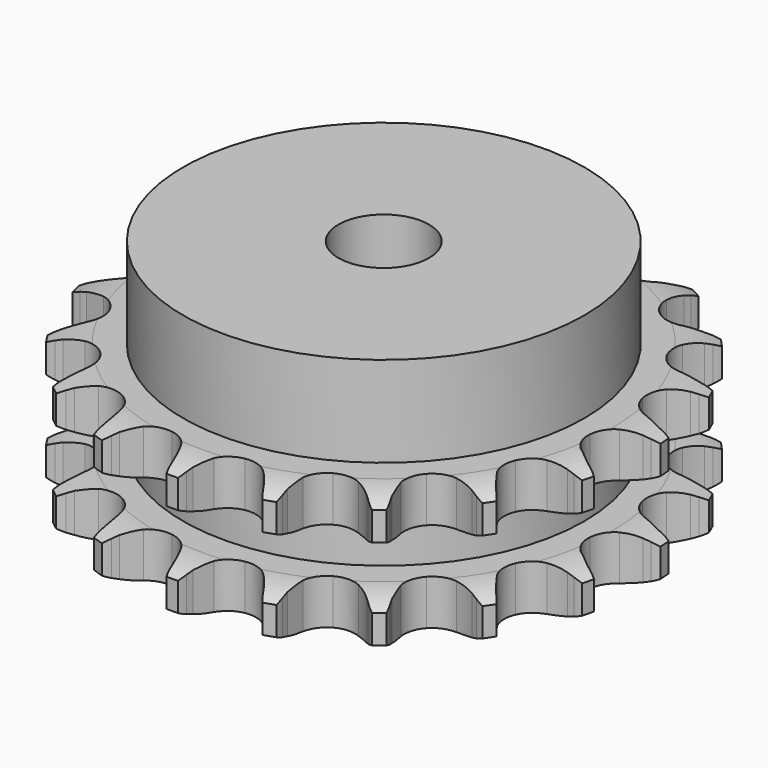
from build123d import *

# Parameters (mm, degrees)
PAD_DEPTH         = 21
SKETCH001_R       = 31
PAD001_DEPTH      = 35
SKETCH002_R       = 7
POCKET_DEPTH      = 0.0010001
POCKET_DEPTH_BACK = 35.001


with BuildPart() as part:
    # Sprocket → Pad (new body)
    with BuildSketch(Plane.XY):
        with BuildLine():
            ThreePointArc((-6.9707445484, 41.7733818998), (-6.0017139948, 40.6642409534), (-5.2850266596, 39.3775501917))
            Line((-5.2850266596, 39.3775501917), (-4.8769925333, 38.421171019))
            ThreePointArc((-4.8769925333, 38.421171019), (-4.2171674371, 37.1188061633), (-3.3924410992, 35.9140863442))
            ThreePointArc((-3.3924410992, 35.9140863442), (-1.8859526252, 34.6993028788), (0, 34.2652647632))
            ThreePointArc((0, 34.2652647632), (1.8859526252, 34.6993028788), (3.3924410992, 35.9140863442))
            ThreePointArc((3.3924410992, 35.9140863442), (4.2171674371, 37.1188061633), (4.8769925333, 38.421171019))
            Line((4.8769925333, 38.421171019), (5.2850266596, 39.3775501917))
            ThreePointArc((5.2850266596, 39.3775501917), (6.0017139948, 40.6642409534), (6.9707445484, 41.7733818998))
            ThreePointArc((6.9707445484, 41.7733818998), (7.5271328772, 40.4096935628), (7.7872003083, 38.9600112583))
            Line((7.7872003083, 38.9600112583), (7.8625902105, 37.9229628829))
            ThreePointArc((7.8625902105, 37.9229628829), (8.0637869856, 36.476918889), (8.4526554899, 35.0696859085))
            ThreePointArc((8.4526554899, 35.0696859085), (9.4830787166, 33.4315667541), (11.1259132808, 32.4086782045))
            ThreePointArc((11.1259132808, 32.4086782045), (13.0506117364, 32.2068311214), (14.869914056, 32.8666382601))
            Line((14.869914056, 32.8666382601), (17.0880774617, 34.7558491092))
            ThreePointArc((17.0880774617, 34.7558491092), (17.4272810662, 35.1500279482), (17.7845389833, 35.5279205561))
            ThreePointArc((17.7845389833, 35.5279205561), (18.8801820292, 36.512186866), (20.1568453111, 37.2465877901))
            ThreePointArc((20.1568453111, 37.2465877901), (20.2402981064, 35.7761288537), (20.015563292, 34.3205505783))
            Line((20.015563292, 34.3205505783), (19.7501393043, 33.3152132831))
            ThreePointArc((19.7501393043, 33.3152132831), (19.4709049659, 31.8821914553), (19.3817757002, 30.4249408424))
            ThreePointArc((19.3817757002, 30.4249408424), (19.8244713343, 28.5410016274), (21.0461612212, 27.0401084898))
            ThreePointArc((21.0461612212, 27.0401084898), (22.801034565, 26.2242494716), (24.7360010944, 26.257579942))
            Line((24.7360010944, 26.257579942), (27.4474040483, 27.3241916559))
            ThreePointArc((27.4474040483, 27.3241916559), (27.8962183257, 27.5868735678), (28.3568205526, 27.8282894558))
            ThreePointArc((28.3568205526, 27.8282894558), (29.7126893845, 28.4034707867), (31.1586391187, 28.6835479531))
            ThreePointArc((31.1586391187, 28.6835479531), (30.7601129752, 27.2656654594), (30.0749294195, 25.9619257048))
            Line((30.0749294195, 25.9619257048), (29.4974543494, 25.0972433853))
            ThreePointArc((29.4974543494, 25.0972433853), (28.7680482708, 23.8325338743), (28.2105797741, 22.4831813444))
            ThreePointArc((28.2105797741, 22.4831813444), (28.0175748746, 20.5575761151), (28.6857310285, 18.7413234498))
            ThreePointArc((28.6857310285, 18.7413234498), (30.0806115039, 17.3998634803), (31.9215585956, 16.8031054089))
            Line((31.9215585956, 16.8031054089), (34.8323785159, 16.9315340582))
            ThreePointArc((34.8323785159, 16.9315340582), (35.3421674752, 17.0342533818), (35.8562006137, 17.1130313926))
            ThreePointArc((35.8562006137, 17.1130313926), (37.3253658052, 17.2167979224), (38.7839109016, 17.0122006242))
            ThreePointArc((38.7839109016, 17.0122006242), (37.9465923108, 15.8005441423), (36.8752102837, 14.7899233405))
            Line((36.8752102837, 14.7899233405), (36.0482625157, 14.1595977428))
            ThreePointArc((36.0482625157, 14.1595977428), (34.9477271634, 13.2002514481), (33.9823297973, 12.1050202852))
            ThreePointArc((33.9823297973, 12.1050202852), (33.1745394397, 10.346418247), (33.2167567739, 8.4116252124))
            ThreePointArc((33.2167567739, 8.4116252124), (34.1004874375, 6.6899322943), (35.6479199089, 5.5277536777))
            Line((35.6479199089, 5.5277536777), (38.4427242913, 4.7040820254))
            ThreePointArc((38.4427242913, 4.7040820254), (38.9582443885, 4.6357075283), (39.4700049719, 4.5433108419))
            ThreePointArc((39.4700049719, 4.5433108419), (40.8932596781, 4.164417857), (42.206344144, 3.4973173862))
            ThreePointArc((42.206344144, 3.4973173862), (41.0209695675, 2.6231886966), (39.679489936, 2.015203293))
            Line((39.679489936, 2.015203293), (38.6926820919, 1.6875399761))
            ThreePointArc((38.6926820919, 1.6875399761), (37.340277548, 1.1375169545), (36.0715670967, 0.4150924493))
            ThreePointArc((36.0715670967, 0.4150924493), (34.7365279005, -0.9859345793), (34.1482315118, -2.8296031366))
            ThreePointArc((34.1482315118, -2.8296031366), (34.4250464338, -4.7449568609), (35.5112759657, -6.3466159364))
            Line((35.5112759657, -6.3466159364), (37.8872043894, -8.0331302862))
            ThreePointArc((37.8872043894, -8.0331302862), (38.3525910228, -8.2651891663), (38.8066218512, -8.5187479352))
            ThreePointArc((38.8066218512, -8.5187479352), (40.0297343407, -9.3392415007), (41.0550650995, -10.3965544571))
            ThreePointArc((41.0550650995, -10.3965544571), (39.6500882656, -10.8384299474), (38.1838811629, -10.9778953005))
            Line((38.1838811629, -10.9778953005), (37.1441491847, -10.9673889319))
            ThreePointArc((37.1441491847, -10.9673889319), (35.6864294661, -11.0484851515), (34.2518903932, -11.3198170942))
            ThreePointArc((34.2518903932, -11.3198170942), (32.5342745706, -12.2114460956), (31.3792155009, -13.7642000799))
            ThreePointArc((31.3792155009, -13.7642000799), (31.0191174893, -15.6656563145), (31.5264342573, -17.533231236))
            Line((31.5264342573, -17.533231236), (33.2260180114, -19.8998282844))
            ThreePointArc((33.2260180114, -19.8998282844), (33.5908393181, -20.2704243672), (33.9379391062, -20.6576681916))
            ThreePointArc((33.9379391062, -20.6576681916), (34.828366162, -21.8308491286), (35.4548327165, -23.1637983058))
            ThreePointArc((35.4548327165, -23.1637983058), (33.9825046656, -23.1255365309), (32.5504563818, -22.7813685986))
            Line((32.5504563818, -22.7813685986), (31.5704713625, -22.4338310725))
            ThreePointArc((31.5704713625, -22.4338310725), (30.1654030196, -22.0372124564), (28.7204898927, -21.8280488105))
            ThreePointArc((28.7204898927, -21.8280488105), (26.8064277696, -22.1136579473), (25.2097745918, -23.207232371))
            ThreePointArc((25.2097745918, -23.207232371), (24.2517858536, -24.8887388288), (24.1252142141, -26.819848875))
            Line((24.1252142141, -26.819848875), (24.964277027, -29.6100711103))
            ThreePointArc((24.964277027, -29.6100711103), (25.1889989577, -30.0790445598), (25.3915540576, -30.5580095626))
            ThreePointArc((25.3915540576, -30.5580095626), (25.852804092, -31.9567455129), (26.0125190702, -33.4208851846))
            ThreePointArc((26.0125190702, -33.4208851846), (24.6323893922, -32.9066324017), (23.3896845795, -32.1161271196))
            Line((23.3896845795, -32.1161271196), (22.5756431017, -31.4692195197))
            ThreePointArc((22.5756431017, -31.4692195197), (21.3754870914, -30.6378658491), (20.0767786681, -29.9708727411))
            ThreePointArc((20.0767786681, -29.9708727411), (18.1736885752, -29.6195118317), (16.3084634358, -30.1354009374))
            ThreePointArc((16.3084634358, -30.1354009374), (14.8563969155, -31.4147403024), (14.1096528696, -33.2001197355))
            Line((14.1096528696, -33.2001197355), (13.9972692661, -36.1116032839))
            ThreePointArc((13.9972692661, -36.1116032839), (14.0575397126, -36.6281335499), (14.0936001364, -37.1469164411))
            ThreePointArc((14.0936001364, -37.1469164411), (14.075689551, -38.6196326608), (13.7513453569, -40.0563005753))
            ThreePointArc((13.7513453569, -40.0563005753), (12.6129725173, -39.1217840527), (11.6942775245, -37.9706049342))
            Line((11.6942775245, -37.9706049342), (11.1343936138, -37.0944297367))
            ThreePointArc((11.1343936138, -37.0944297367), (10.2692054621, -35.9184310815), (9.2574369514, -34.8658875643))
            ThreePointArc((9.2574369514, -34.8658875643), (7.5715482299, -33.9156320151), (5.6398772146, -33.7979312133))
            ThreePointArc((5.6398772146, -33.7979312133), (3.8510868508, -34.5364672143), (2.5650917028, -35.9826424698))
            Line((2.5650917028, -35.9826424698), (1.5134401902, -38.6998829124))
            ThreePointArc((1.5134401902, -38.6998829124), (1.4027279145, -39.2079959258), (1.2683859556, -39.7103785295))
            ThreePointArc((1.2683859556, -39.7103785295), (0.7732556403, -41.0974833646), (0, -42.3509942611))
            ThreePointArc((0, -42.3509942611), (-0.7732556403, -41.0974833646), (-1.2683859556, -39.7103785295))
            Line((-1.2683859556, -39.7103785295), (-1.5134401902, -38.6998829124))
            ThreePointArc((-1.5134401902, -38.6998829124), (-1.9499039223, -37.3066769744), (-2.5650917028, -35.9826424698))
            ThreePointArc((-2.5650917028, -35.9826424698), (-3.8510868508, -34.5364672143), (-5.6398772146, -33.7979312133))
            ThreePointArc((-5.6398772146, -33.7979312133), (-7.5715482299, -33.9156320151), (-9.2574369514, -34.8658875643))
            Line((-9.2574369514, -34.8658875643), (-11.1343936138, -37.0944297367))
            ThreePointArc((-11.1343936138, -37.0944297367), (-11.4040912188, -37.5390635684), (-11.6942775245, -37.9706049342))
            ThreePointArc((-11.6942775245, -37.9706049342), (-12.6129725173, -39.1217840527), (-13.7513453569, -40.0563005753))
            ThreePointArc((-13.7513453569, -40.0563005753), (-14.075689551, -38.6196326608), (-14.0936001364, -37.1469164411))
            Line((-14.0936001364, -37.1469164411), (-13.9972692661, -36.1116032839))
            ThreePointArc((-13.9972692661, -36.1116032839), (-13.9577109607, -34.6521655444), (-14.1096528696, -33.2001197355))
            ThreePointArc((-14.1096528696, -33.2001197355), (-14.8563969155, -31.4147403024), (-16.3084634358, -30.1354009374))
            ThreePointArc((-16.3084634358, -30.1354009374), (-18.1736885752, -29.6195118317), (-20.0767786681, -29.9708727411))
            Line((-20.0767786681, -29.9708727411), (-22.5756431017, -31.4692195197))
            ThreePointArc((-22.5756431017, -31.4692195197), (-22.9751001157, -31.8021911948), (-23.3896845795, -32.1161271196))
            ThreePointArc((-23.3896845795, -32.1161271196), (-24.6323893922, -32.9066324017), (-26.0125190702, -33.4208851846))
            ThreePointArc((-26.0125190702, -33.4208851846), (-25.852804092, -31.9567455129), (-25.3915540576, -30.5580095626))
            Line((-25.3915540576, -30.5580095626), (-24.964277027, -29.6100711103))
            ThreePointArc((-24.964277027, -29.6100711103), (-24.4529834404, -28.2425542939), (-24.1252142141, -26.819848875))
            ThreePointArc((-24.1252142141, -26.819848875), (-24.2517858536, -24.8887388288), (-25.2097745918, -23.207232371))
            ThreePointArc((-25.2097745918, -23.207232371), (-26.8064277696, -22.1136579473), (-28.7204898927, -21.8280488105))
            Line((-28.7204898927, -21.8280488105), (-31.5704713625, -22.4338310725))
            ThreePointArc((-31.5704713625, -22.4338310725), (-32.0564004198, -22.6190579434), (-32.5504563818, -22.7813685986))
            ThreePointArc((-32.5504563818, -22.7813685986), (-33.9825046656, -23.1255365309), (-35.4548327165, -23.1637983058))
            ThreePointArc((-35.4548327165, -23.1637983058), (-34.828366162, -21.8308491286), (-33.9379391062, -20.6576681916))
            Line((-33.9379391062, -20.6576681916), (-33.2260180114, -19.8998282844))
            ThreePointArc((-33.2260180114, -19.8998282844), (-32.2983957372, -18.7724240573), (-31.5264342573, -17.533231236))
            ThreePointArc((-31.5264342573, -17.533231236), (-31.0191174893, -15.6656563145), (-31.3792155009, -13.7642000799))
            ThreePointArc((-31.3792155009, -13.7642000799), (-32.5342745706, -12.2114460956), (-34.2518903932, -11.3198170942))
            Line((-34.2518903932, -11.3198170942), (-37.1441491847, -10.9673889319))
            ThreePointArc((-37.1441491847, -10.9673889319), (-37.663892332, -10.984798793), (-38.1838811629, -10.9778953005))
            ThreePointArc((-38.1838811629, -10.9778953005), (-39.6500882656, -10.8384299474), (-41.0550650995, -10.3965544571))
            ThreePointArc((-41.0550650995, -10.3965544571), (-40.0297343407, -9.3392415007), (-38.8066218512, -8.5187479352))
            Line((-38.8066218512, -8.5187479352), (-37.8872043894, -8.0331302862))
            ThreePointArc((-37.8872043894, -8.0331302862), (-36.6437756946, -7.2680103899), (-35.5112759657, -6.3466159364))
            ThreePointArc((-35.5112759657, -6.3466159364), (-34.4250464338, -4.7449568609), (-34.1482315118, -2.8296031366))
            ThreePointArc((-34.1482315118, -2.8296031366), (-34.7365279005, -0.9859345793), (-36.0715670967, 0.4150924493))
            Line((-36.0715670967, 0.4150924493), (-38.6926820919, 1.6875399761))
            ThreePointArc((-38.6926820919, 1.6875399761), (-39.1899170946, 1.8398337534), (-39.679489936, 2.015203293))
            ThreePointArc((-39.679489936, 2.015203293), (-41.0209695675, 2.6231886966), (-42.206344144, 3.4973173862))
            ThreePointArc((-42.206344144, 3.4973173862), (-40.8932596781, 4.164417857), (-39.4700049719, 4.5433108419))
            Line((-39.4700049719, 4.5433108419), (-38.4427242913, 4.7040820254))
            ThreePointArc((-38.4427242913, 4.7040820254), (-37.0182339687, 5.0240049781), (-35.6479199089, 5.5277536777))
            ThreePointArc((-35.6479199089, 5.5277536777), (-34.1004874375, 6.6899322943), (-33.2167567739, 8.4116252124))
            ThreePointArc((-33.2167567739, 8.4116252124), (-33.1745394397, 10.346418247), (-33.9823297973, 12.1050202852))
            Line((-33.9823297973, 12.1050202852), (-36.0482625157, 14.1595977428))
            ThreePointArc((-36.0482625157, 14.1595977428), (-36.4691062457, 14.4650917646), (-36.8752102837, 14.7899233405))
            ThreePointArc((-36.8752102837, 14.7899233405), (-37.9465923108, 15.8005441423), (-38.7839109016, 17.0122006242))
            ThreePointArc((-38.7839109016, 17.0122006242), (-37.3253658052, 17.2167979224), (-35.8562006137, 17.1130313926))
            Line((-35.8562006137, 17.1130313926), (-34.8323785159, 16.9315340582))
            ThreePointArc((-34.8323785159, 16.9315340582), (-33.3811921952, 16.7715914512), (-31.9215585956, 16.8031054089))
            ThreePointArc((-31.9215585956, 16.8031054089), (-30.0806115039, 17.3998634803), (-28.6857310285, 18.7413234498))
            ThreePointArc((-28.6857310285, 18.7413234498), (-28.0175748746, 20.5575761151), (-28.2105797741, 22.4831813444))
            Line((-28.2105797741, 22.4831813444), (-29.4974543494, 25.0972433853))
            ThreePointArc((-29.4974543494, 25.0972433853), (-29.7963018587, 25.5228326341), (-30.0749294195, 25.9619257048))
            ThreePointArc((-30.0749294195, 25.9619257048), (-30.7601129752, 27.2656654594), (-31.1586391187, 28.6835479531))
            ThreePointArc((-31.1586391187, 28.6835479531), (-29.7126893845, 28.4034707867), (-28.3568205526, 27.8282894558))
            Line((-28.3568205526, 27.8282894558), (-27.4474040483, 27.3241916559))
            ThreePointArc((-27.4474040483, 27.3241916559), (-26.1267802849, 26.7017157525), (-24.7360010944, 26.257579942))
            ThreePointArc((-24.7360010944, 26.257579942), (-22.801034565, 26.2242494716), (-21.0461612212, 27.0401084898))
            ThreePointArc((-21.0461612212, 27.0401084898), (-19.8244713343, 28.5410016274), (-19.3817757002, 30.4249408424))
            Line((-19.3817757002, 30.4249408424), (-19.7501393043, 33.3152132831))
            ThreePointArc((-19.7501393043, 33.3152132831), (-19.894605828, 33.8147785601), (-20.015563292, 34.3205505783))
            ThreePointArc((-20.015563292, 34.3205505783), (-20.2402981064, 35.7761288537), (-20.1568453111, 37.2465877901))
            ThreePointArc((-20.1568453111, 37.2465877901), (-18.8801820292, 36.512186866), (-17.7845389833, 35.5279205561))
            Line((-17.7845389833, 35.5279205561), (-17.0880774617, 34.7558491092))
            ThreePointArc((-17.0880774617, 34.7558491092), (-16.0411263319, 33.7382948322), (-14.869914056, 32.8666382601))
            ThreePointArc((-14.869914056, 32.8666382601), (-13.0506117364, 32.2068311214), (-11.1259132808, 32.4086782045))
            ThreePointArc((-11.1259132808, 32.4086782045), (-9.4830787166, 33.4315667541), (-8.4526554899, 35.0696859085))
            Line((-8.4526554899, 35.0696859085), (-7.8625902105, 37.9229628829))
            ThreePointArc((-7.8625902105, 37.9229628829), (-7.8370205592, 38.4423685388), (-7.7872003083, 38.9600112583))
            ThreePointArc((-7.7872003083, 38.9600112583), (-7.5271328772, 40.4096935628), (-6.9707445484, 41.7733818998))
        make_face()
    extrude(amount=PAD_DEPTH)

    # Sketch → Groove (revolve, cut)
    with BuildSketch(Plane.XZ):
        with BuildLine():
            ThreePointArc((35.1834313734, 0), (38.0903197441, 0.3291673517), (40.85, 1.3))
            Line((40.85, 1.3), (40.85, 5.7))
            ThreePointArc((40.85, 5.7), (38.0903197441, 6.6708326483), (35.1834313734, 7))
            Line((31, 7), (35.1834313734, 7))
            Line((31, 14), (31, 7))
            Line((35.1834313734, 14), (31, 14))
            ThreePointArc((35.1834313734, 14), (38.0903197441, 14.3291673517), (40.85, 15.3))
            Line((40.85, 15.3), (40.85, 19.7))
            ThreePointArc((40.85, 19.7), (38.0903197441, 20.6708326483), (35.1834313734, 21))
            Line((35.1834313734, 21), (45.1834313734, 21))
            Line((45.1834313734, 21), (45.1834313734, 0))
            Line((35.1834313734, 0), (45.1834313734, 0))
        make_face()
    revolve(axis=Axis((0, 0, 0), (0, 0, 1)), mode=Mode.SUBTRACT)

    # Sketch001 → Pad001 (join)
    with BuildSketch(Plane.XY):
        Circle(SKETCH001_R)
    extrude(amount=PAD001_DEPTH)

    # Sketch002 → Pocket (cut, two sides)
    with BuildSketch(Plane.XY) as pocket_sk:
        Circle(SKETCH002_R)
    extrude(amount=-POCKET_DEPTH, mode=Mode.SUBTRACT)
    extrude(pocket_sk.sketch, amount=POCKET_DEPTH_BACK, mode=Mode.SUBTRACT)


solid = part.part
